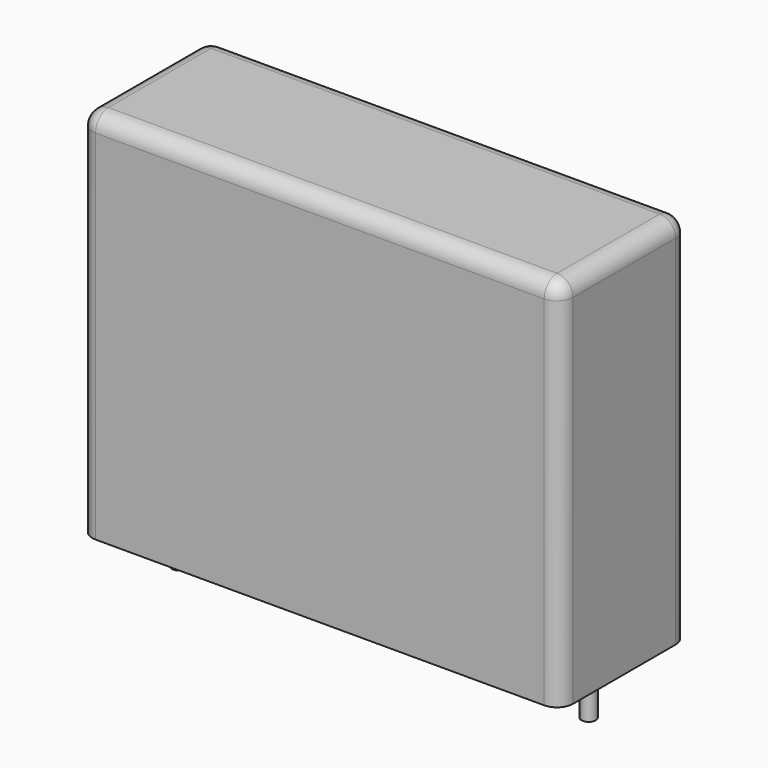
from build123d import *

# Parameters (mm, degrees)
SKETCH_W     = 27
SKETCH_H     = 9
PAD_DEPTH    = 21
FILLET_R     = 0.9
SKETCH001_R  = 0.4
PAD001_DEPTH = 3.2


with BuildPart() as fillet_body:
    # Sketch → Pad (new body)
    with BuildSketch(Plane.XY.offset(0.1)):
        with Locations((11.5, 0)):
            Rectangle(SKETCH_W, SKETCH_H)
    extrude(amount=PAD_DEPTH)

    # Fillet
    fillet_edges = [fillet_body.edges().sort_by_distance(p)[0] for p in [
        (-2, 0, 21.1),
        (-2, -4.5, 10.6),
        (11.5, -4.5, 21.1),
        (25, -4.5, 10.6),
        (25, 0, 21.1),
        (25, 4.5, 10.6),
        (11.5, 4.5, 21.1),
        (-2, 4.5, 10.6),
    ]]
    fillet(fillet_edges, radius=FILLET_R)


with BuildPart() as pad001:
    # Sketch001 → Pad001 (new body)
    with BuildSketch(Plane.XY.offset(0.5)):
        Circle(SKETCH001_R)
        with Locations((23, 0)):
            Circle(SKETCH001_R)
    extrude(amount=-PAD001_DEPTH)


solid = Compound([fillet_body.part, pad001.part])
